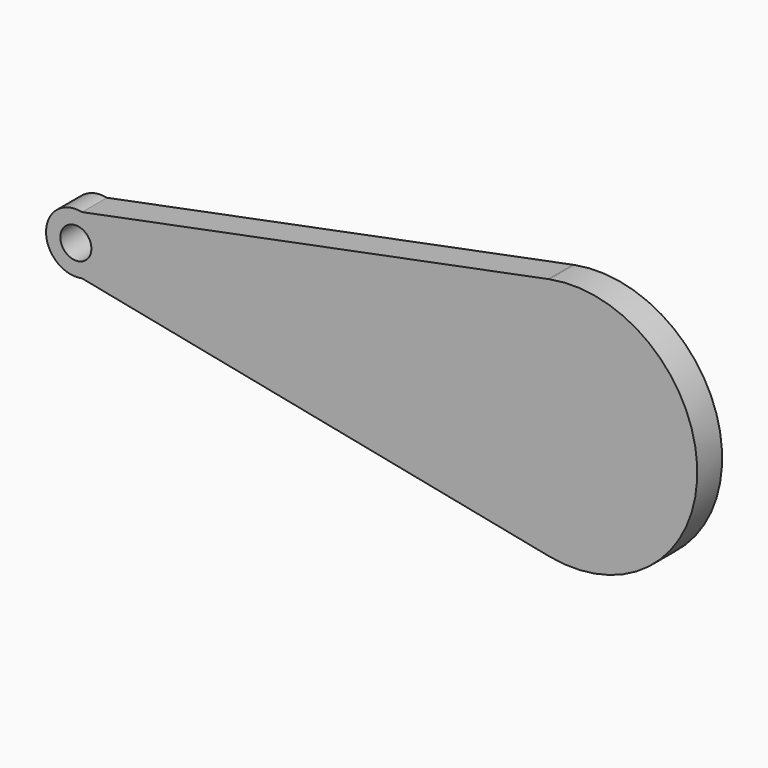
from build123d import *

# Parameters (mm, degrees)
F1_DEPTH = 3.175
F3_D     = 3.175


with BuildPart() as f1:
    # F0 (on Front) → F1 (new body)
    with BuildSketch(Plane.XZ):
        with BuildLine():
            Line((23.241043, -5.801166), (23.117982, -5.77672))
            ThreePointArc((23.117982, -5.77672), (23.179482, -5.789095), (23.241043, -5.801166))
        make_face()
        with BuildLine():
            Line((-24.51433, 3.685497), (23.117982, -5.77672))
            Line((23.117982, -5.77672), (23.241043, -5.801166))
            ThreePointArc((23.241043, -5.801166), (38.354, 6.6675), (23.241043, 19.136167))
            Line((23.241043, 19.136167), (23.117982, 19.11172))
            Line((23.117982, 19.11172), (-24.51433, 9.649503))
            ThreePointArc((-24.51433, 9.649503), (-28.194172, 6.6675), (-24.51433, 3.685497))
        make_face()
        with BuildLine():
            Line((23.117982, 19.11172), (23.241043, 19.136167))
            ThreePointArc((23.241043, 19.136167), (23.179482, 19.124095), (23.117982, 19.11172))
        make_face()
    extrude(amount=F1_DEPTH)

    # F3 (through all)
    with Locations(Plane.XZ.offset(3.175)):
        with Locations((-25.146, 6.6675)):
            Hole(F3_D / 2)


solid = f1.part
